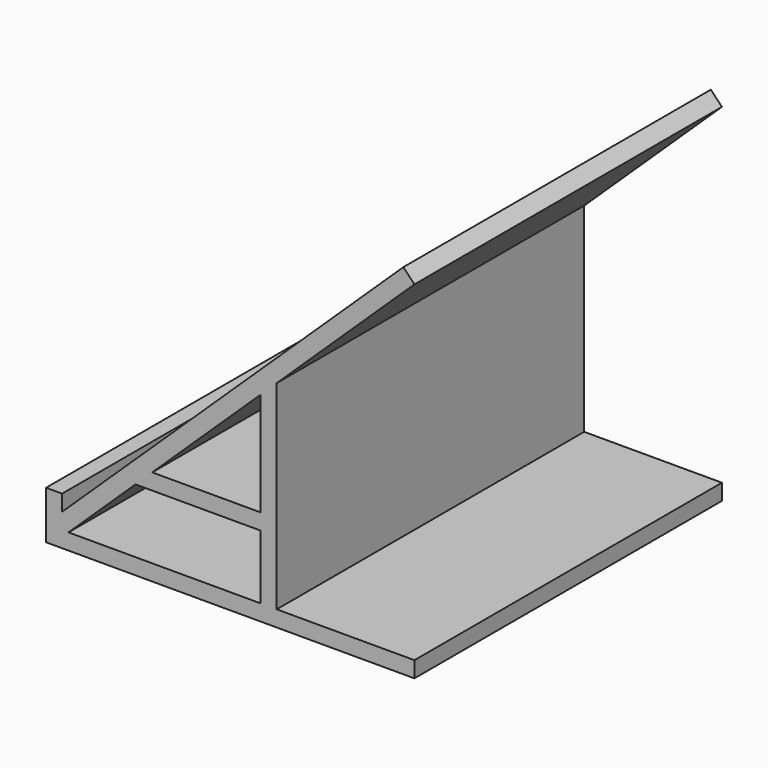
from build123d import *

# Parameters (mm, degrees)
F1_DEPTH = 304.8
F3_DEPTH = 304.8
F5_DEPTH = 304.8


with BuildPart() as f1:
    # F0 (on Front) → F1 (new body)
    with BuildSketch(Plane.XZ):
        Polygon((-139.7, -114.3), (-152.4, -114.3), (-152.4, -152.4), (-139.7, -152.4), (-139.7, -139.7), (-139.7, -127), align=None)
        Polygon((15.1285276038, 3.5224484142), (6.35, 12.7), (-139.7, -127), (-139.7, -139.7), (-134.604032102, -139.7), align=None)
        Polygon((152.4, -152.4), (152.4, -139.7), (139.7, -139.7), (-134.604032102, -139.7), (-139.7, -139.7), (-139.7, -152.4), align=None)
        Polygon((139.7, 122.6777698367), (139.7, 140.252173913), (6.35, 12.7), (15.1285276038, 3.5224484142), align=None)
        Polygon((152.4, 134.8255959236), (152.4, 152.4), (139.7, 140.252173913), (139.7, 122.6777698367), align=None)
        Polygon((152.4, -139.7), (152.4, 134.8255959236), (139.7, 122.6777698367), (139.7, -139.7), align=None)
    extrude(amount=F1_DEPTH)

    # F2 (on face) → F3 (join)
    with BuildSketch(Plane.XZ.offset(304.8)):
        Polygon((-68.2176684656, -76.2), (-81.4949411929, -88.9), (17.795967898, -88.9), (17.795967898, -76.2), align=None)
        Polygon((17.795967898, -88.9), (17.795967898, -139.7), (30.495967898, -139.7), (30.495967898, 18.2217391304), (17.795967898, 6.0739130435), (17.795967898, -76.2), align=None)
    extrude(amount=-F3_DEPTH)

    # F4 (on face) → F5 (cut)
    with BuildSketch(Plane.XZ.offset(304.8)):
        Polygon((130.9214723962, 131.8553214225), (139.7, 122.6777698367), (139.7, -139.7), (139.7, -152.4), (152.4, -152.4), (152.4, 152.4), align=None)
    extrude(amount=-F5_DEPTH, mode=Mode.SUBTRACT)


solid = f1.part
